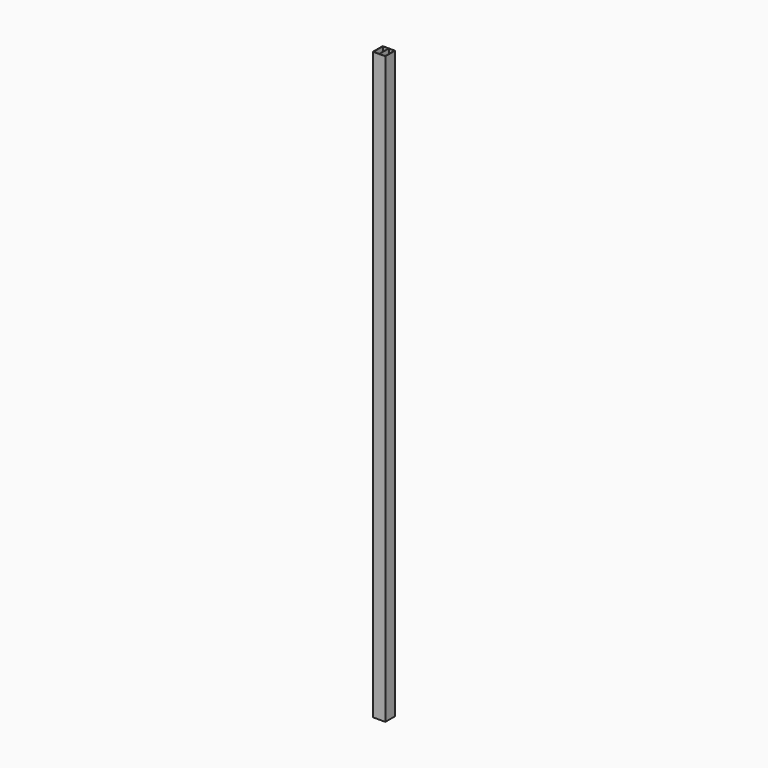
from build123d import *

# Parameters (mm, degrees)
F0_W     = 112
F0_H     = 110
F1_DEPTH = 5276.9


with BuildPart() as f1:
    # F0 (on Top) → F1 (new body)
    with BuildSketch(Plane.XY):
        Rectangle(F0_W, F0_H)
        Polygon((-52.1153882146, -52.5), (-52.1153882146, 52.5), (-1, 52.5), (1, 52.5), (52.1153882146, 52.5), (52.1153882146, -52.5), (1, -52.5), (0, -52.5), (-1, -52.5), align=None, mode=Mode.SUBTRACT)
        Polygon((1, 52.5), (-1, 52.5), (-1, -52.5), (0, -52.5), (1, -52.5), align=None)
    extrude(amount=F1_DEPTH)


solid = f1.part
